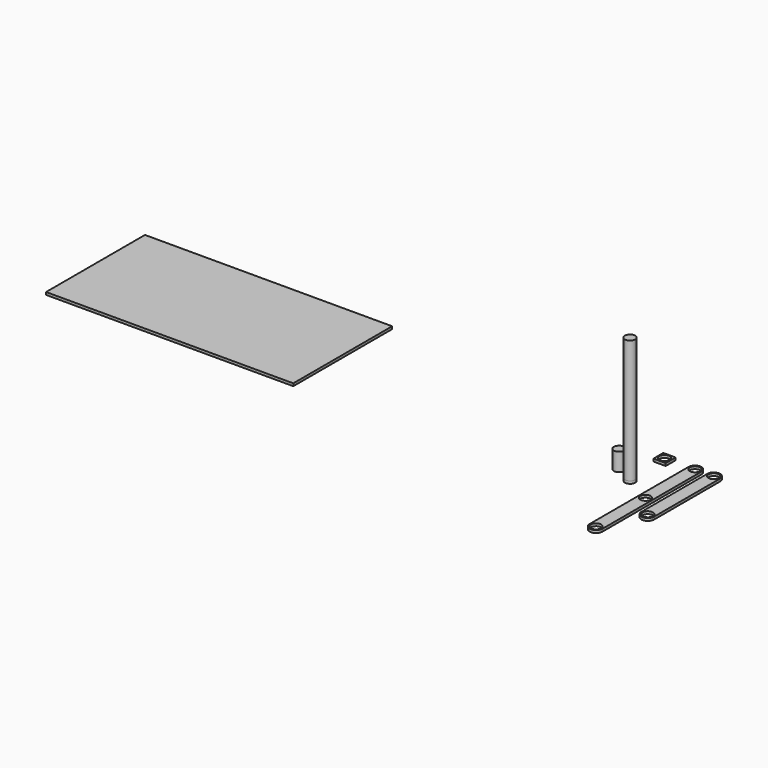
from build123d import *

# Parameters (mm, degrees)
F0_R      = 12.7
F0_W      = 30.27069
F0_H      = 30.459884
F1_DEPTH  = 6.35
F1_FACE_R = 12.7
F2_DEPTH  = 38.1
F3_DEPTH  = 304.8
F4_W      = 609.6
F4_H      = 304.8
F5_DEPTH  = 6.35


with BuildPart() as f1:
    # F0 (on Top) → F1 (new body)
    with BuildSketch(Plane.XY):
        with BuildLine():
            Line((137.185989, -152.339567), (137.185989, 50.860433))
            ThreePointArc((137.185989, 50.860433), (121.310989, 34.985433), (105.435989, 50.860433))
            Line((105.435989, 50.860433), (105.435989, -152.339567))
            ThreePointArc((105.435989, -152.339567), (121.310989, -136.464567), (137.185989, -152.339567))
        make_face()
        with BuildLine():
            Line((90.985773, -253.939567), (90.985773, 50.860433))
            ThreePointArc((90.985773, 50.860433), (75.110773, 34.985433), (59.235773, 50.860433))
            Line((59.235773, 50.860433), (59.235773, -253.939567))
            ThreePointArc((59.235773, -253.939567), (75.110773, -238.064567), (90.985773, -253.939567))
        make_face()
        with Locations((74.994609, -101.539567)):
            Circle(F0_R, mode=Mode.SUBTRACT)
        with BuildLine():
            ThreePointArc((59.235773, 50.860433), (75.110773, 34.985433), (90.985773, 50.860433))
            ThreePointArc((90.985773, 50.860433), (75.110773, 66.735433), (59.235773, 50.860433))
        make_face()
        with Locations((75.110773, 50.860433)):
            Circle(F0_R, mode=Mode.SUBTRACT)
        with BuildLine():
            ThreePointArc((105.435989, 50.860433), (121.310989, 34.985433), (137.185989, 50.860433))
            ThreePointArc((137.185989, 50.860433), (121.310989, 66.735433), (105.435989, 50.860433))
        make_face()
        with Locations((121.310989, 50.860433)):
            Circle(F0_R, mode=Mode.SUBTRACT)
        with BuildLine():
            ThreePointArc((105.435989, -152.339567), (121.310989, -168.214567), (137.185989, -152.339567))
            ThreePointArc((137.185989, -152.339567), (121.310989, -136.464567), (105.435989, -152.339567))
        make_face()
        with Locations((121.310989, -152.339567)):
            Circle(F0_R, mode=Mode.SUBTRACT)
        with BuildLine():
            ThreePointArc((59.235773, -253.939567), (75.110773, -269.814567), (90.985773, -253.939567))
            ThreePointArc((90.985773, -253.939567), (75.110773, -238.064567), (59.235773, -253.939567))
        make_face()
        with Locations((75.110773, -253.939567)):
            Circle(F0_R, mode=Mode.SUBTRACT)
        with Locations((0, 50.860433)):
            Rectangle(F0_W, F0_H)
        with Locations((0, 50.860433)):
            Circle(F0_R, mode=Mode.SUBTRACT)
        with Locations((0, -55.276792)):
            Circle(F0_R)
        with Locations((-47.050537, -30.611185)):
            Circle(F0_R)
    extrude(amount=F1_DEPTH)

    # F1_face (on face) → F2 (join)
    with BuildSketch(Plane(origin=(-47.050537, -30.611185, 6.35), x_dir=(1, 0, 0), z_dir=(0, 0, 1))):
        Circle(F1_FACE_R)
    extrude(amount=F2_DEPTH)

    # F1_face (on face) → F3 (join)
    with BuildSketch(Plane(origin=(-47.050537, -30.611185, 6.35), x_dir=(1, 0, 0), z_dir=(0, 0, 1))):
        with Locations((47.050537, -24.665608)):
            Circle(F1_FACE_R)
    extrude(amount=F3_DEPTH)


with BuildPart() as f5:
    # F4 (on Top) → F5 (new body)
    with BuildSketch(Plane.XY):
        with Locations((-1057.655986, 0)):
            Rectangle(F4_W, F4_H)
    extrude(amount=F5_DEPTH)


solid = Compound([f1.part, f5.part])
